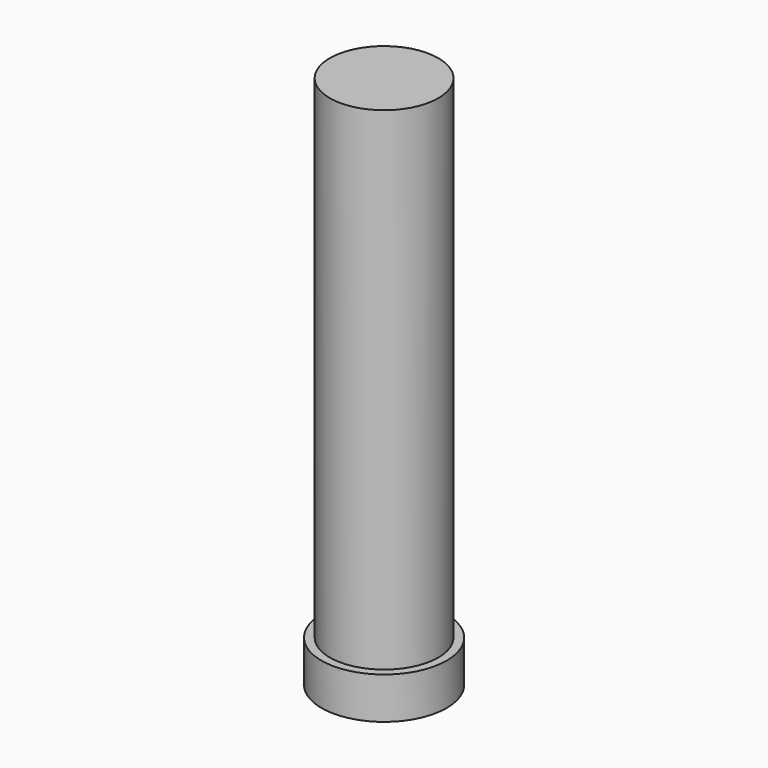
from build123d import *

# Parameters (mm, degrees)
F0_R     = 6.5
F0_R_2   = 5.5
F1_DEPTH = 62
F2_R     = 6.5
F3_DEPTH = 2
F4_R     = 7.5
F4_R_2   = 6.5
F5_DEPTH = 5
F6_R     = 0.5


with BuildPart() as f1:
    # F0 (on Top) → F1 (new body)
    with BuildSketch(Plane.XY):
        Circle(F0_R)
        Circle(F0_R_2, mode=Mode.SUBTRACT)
    extrude(amount=F1_DEPTH)

    # F2 (on face) → F3 (join)
    with BuildSketch(Plane.XY.offset(62)):
        Circle(F2_R)
    extrude(amount=F3_DEPTH)

    # F4 (on Top) → F5 (join)
    with BuildSketch(Plane.XY):
        Circle(F4_R)
        Circle(F4_R_2, mode=Mode.SUBTRACT)
    extrude(amount=F5_DEPTH)

    # F6
    f6_edges = [f1.edges().sort_by_distance(p)[0] for p in [
        (-5.5, 0, 0),
    ]]
    fillet(f6_edges, radius=F6_R)


solid = f1.part
